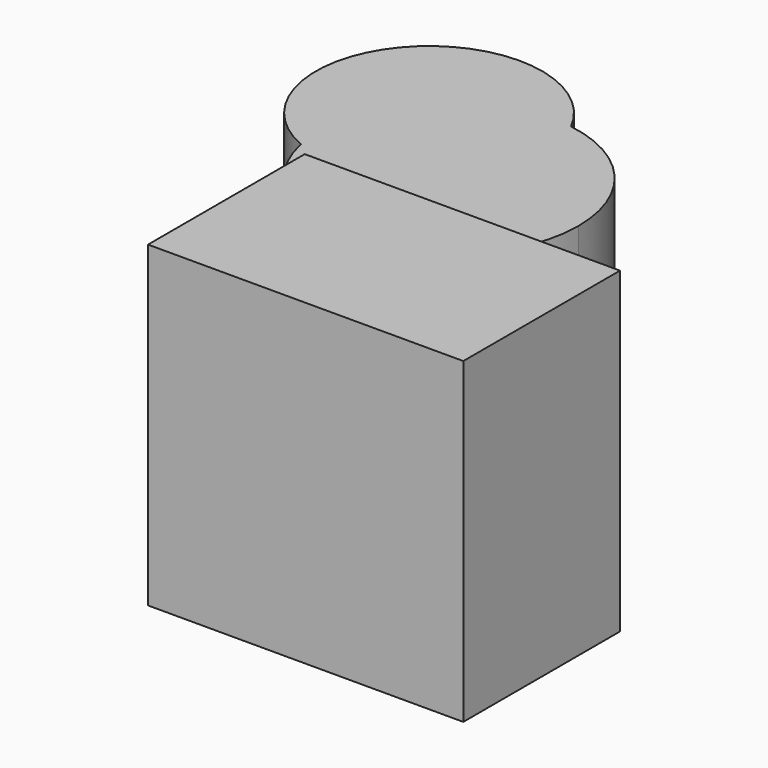
from build123d import *

# Parameters (mm, degrees)
F1_DEPTH = 25.4
F2_W     = 50.41457
F2_H     = 31.316566
F3_DEPTH = 50.8


with BuildPart() as f1:
    # F0 (on Top) → F1 (new body)
    with BuildSketch(Plane.XY):
        with BuildLine():
            ThreePointArc((-54.76628, 36.867458), (-37.623093, 38.329119), (-29.446255, 53.467304))
            ThreePointArc((-29.446255, 53.467304), (-29.945427, 57.688948), (-31.41541, 61.677758))
            ThreePointArc((-31.41541, 61.677758), (-49.616544, 55.414442), (-54.76628, 36.867458))
        make_face()
        with BuildLine():
            ThreePointArc((-31.41541, 61.677758), (-29.945427, 57.688948), (-29.446255, 53.467304))
            ThreePointArc((-29.446255, 53.467304), (-37.623093, 38.329119), (-54.76628, 36.867458))
            ThreePointArc((-54.76628, 36.867458), (-32.360893, 20.691256), (-13.890242, 41.246206))
            ThreePointArc((-13.890242, 41.246206), (-18.871732, 54.705216), (-31.41541, 61.677758))
        make_face()
        with BuildLine():
            ThreePointArc((-54.76628, 36.867458), (-49.616544, 55.414442), (-31.41541, 61.677758))
            ThreePointArc((-31.41541, 61.677758), (-60.729188, 65.873401), (-54.76628, 36.867458))
        make_face()
    extrude(amount=F1_DEPTH)


with BuildPart() as f3:
    # F2 (on Top) → F3 (new body)
    with BuildSketch(Plane.XY):
        with Locations((2.971113, -18.686886)):
            Rectangle(F2_W, F2_H)
    extrude(amount=F3_DEPTH)


solid = Compound([f1.part, f3.part])
